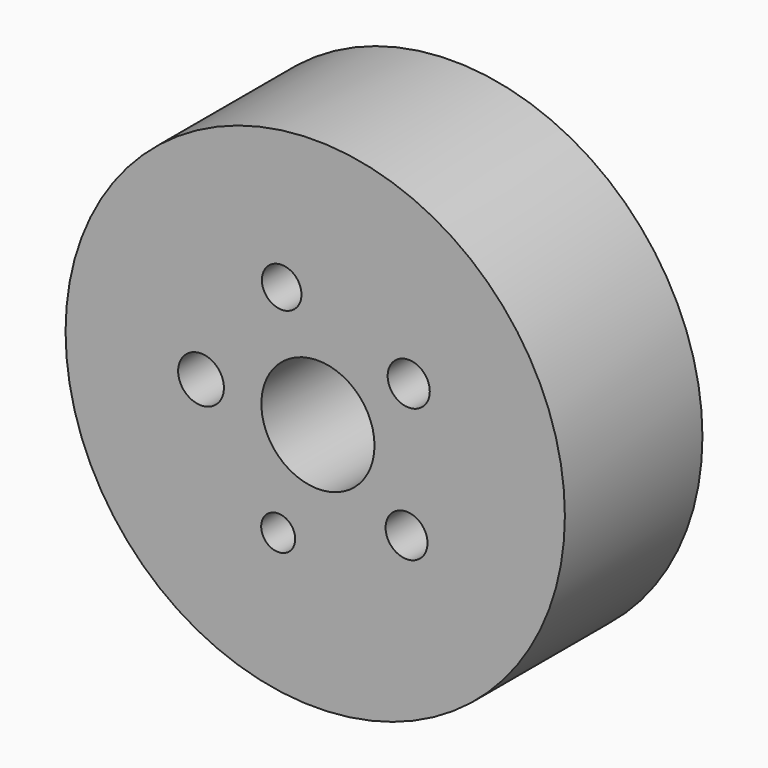
from build123d import *

# Parameters (mm, degrees)
F0_R     = 36.881919
F0_R_2   = 2.513862
F0_R_3   = 3.094673
F0_R_4   = 3.382084
F0_R_5   = 2.924238
F0_R_6   = 8.35612
F0_R_7   = 3.112616
F1_DEPTH = 25.4


with BuildPart() as f1:
    # F0 (on Front) → F1 (new body)
    with BuildSketch(Plane.XZ):
        Circle(F0_R)
        with Locations((-5.472403, -15.961867)):
            Circle(F0_R_2, mode=Mode.SUBTRACT)
        with Locations((13.489572, -10.137053)):
            Circle(F0_R_3, mode=Mode.SUBTRACT)
        with Locations((-16.871703, 0.272076)):
            Circle(F0_R_4, mode=Mode.SUBTRACT)
        with Locations((-4.954883, 16.130019)):
            Circle(F0_R_5, mode=Mode.SUBTRACT)
        with Locations((0.398887, 0)):
            Circle(F0_R_6, mode=Mode.SUBTRACT)
        with Locations((13.809417, 9.696824)):
            Circle(F0_R_7, mode=Mode.SUBTRACT)
    extrude(amount=F1_DEPTH)


solid = f1.part
